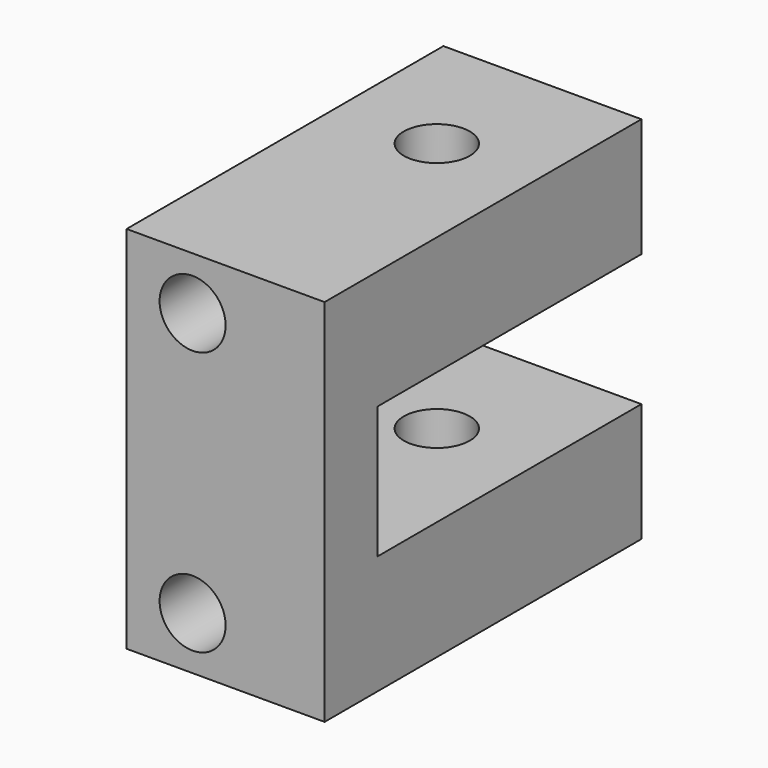
from build123d import *

# Parameters (mm, degrees)
F0_W     = 19.05
F0_H     = 38.1
F1_DEPTH = 17.78
F2_W     = 31.75
F2_H     = 12.7
F3_DEPTH = 25.4
F4_R     = 3.175
F5_DEPTH = 76.2
F6_R     = 3.175
F7_DEPTH = 12.7


with BuildPart() as f1:
    # F0 (on Top) → F1 (new body, symmetric)
    with BuildSketch(Plane.XY):
        with Locations((9.525, 19.05)):
            Rectangle(F0_W, F0_H)
    extrude(amount=F1_DEPTH, both=True)

    # F2 (on face) → F3 (cut)
    with BuildSketch(Plane(origin=(0, 0, 0), x_dir=(0, -1, 0), z_dir=(-1, 0, 0))):
        with Locations((-22.225, 0)):
            Rectangle(F2_W, F2_H)
    extrude(amount=-F3_DEPTH, mode=Mode.SUBTRACT)

    # F4 (on face) → F5 (cut)
    with BuildSketch(Plane.XY.offset(17.78)):
        with Locations((9.525, 25.4)):
            Circle(F4_R)
    extrude(amount=-F5_DEPTH, mode=Mode.SUBTRACT)

    # F6 (on face) → F7 (cut)
    with BuildSketch(Plane.XZ):
        with Locations((6.35, 12.7)):
            Circle(F6_R)
        with Locations((6.35, -12.7)):
            Circle(F6_R)
    extrude(amount=-F7_DEPTH, mode=Mode.SUBTRACT)


solid = f1.part
